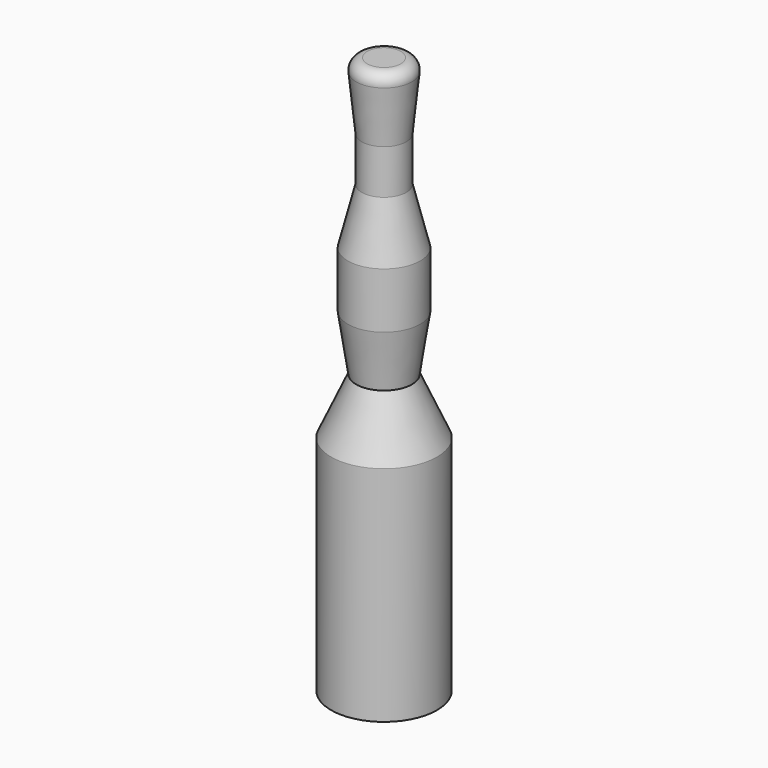
from build123d import *


with BuildPart() as f1:
    # F0 (on Front) → F1 (revolve)
    with BuildSketch(Plane.XZ):
        with BuildLine():
            Line((4, -20), (4, -12))
            Line((4, -12), (5, -2.203091))
            ThreePointArc((5, -2.203091), (4.494619, -0.659512), (3.010338, 0))
            Line((3.010338, 0), (0, 0))
            Line((0, 0), (0, -100))
            Line((0, -100), (9.5, -100))
            Line((9.5, -100), (9.5, -60))
            Line((9.5, -60), (5, -50))
            Line((5, -50), (6.5, -40))
            Line((6.5, -40), (6.5, -30))
            Line((6.5, -30), (4, -20))
        make_face()
    revolve(axis=Axis((0, 0, -50), (0, 0, 1)))


solid = f1.part
